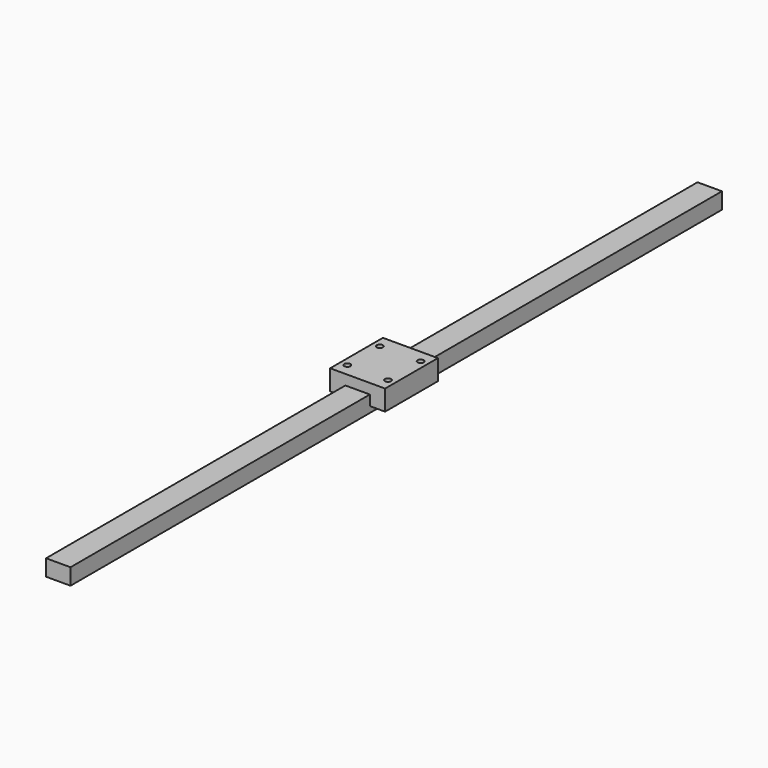
from build123d import *

# Parameters (mm, degrees)
F1_DEPTH = 200
F2_DEPTH = 16.2
F4_D     = 3
F4_DEPTH = 5
F4_TIP   = 0.9012909285


with BuildPart() as f1:
    # F0 (on Front) → F1 (new body, symmetric)
    with BuildSketch(Plane.XZ):
        Polygon((-6, 3), (-6, 0), (6, 0), (6, 3), (6, 8), (-6, 8), align=None)
    extrude(amount=F1_DEPTH, both=True)


with BuildPart() as f2:
    # F0 (on Front) → F2 (new body, symmetric)
    with BuildSketch(Plane.XZ):
        Polygon((-13.5, 3), (-6, 3), (-6, 8), (6, 8), (6, 3), (13.5, 3), (13.5, 13), (-13.5, 13), align=None)
    extrude(amount=F2_DEPTH, both=True)

    # F4
    with Locations(Plane.XY.offset(13)):
        with Locations((-10, 10), (10, 10), (10, -10), (-10, -10)):
            Hole(F4_D / 2, depth=F4_DEPTH)
            with Locations((0, 0, -(F4_DEPTH + F4_TIP / 2))):  # 118° drill point
                Cone(0, F4_D / 2, F4_TIP, mode=Mode.SUBTRACT)


solid = Compound([f1.part, f2.part])
